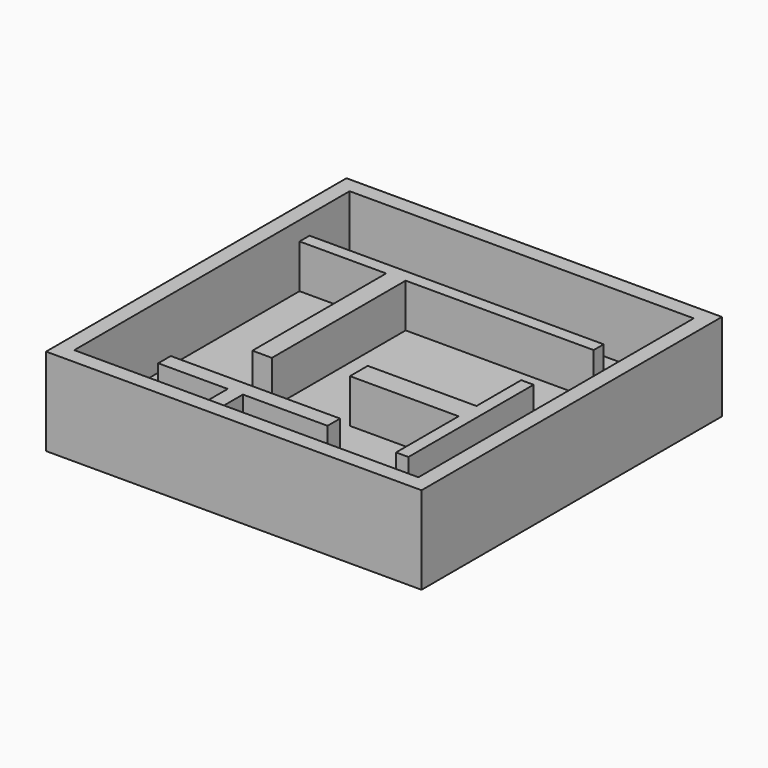
from build123d import *

# Parameters (mm, degrees)
F0_W     = 38.1
F0_H     = 38.1
F1_DEPTH = 2.54
F2_W     = 38.1
F2_H     = 38.1
F2_W_2   = 34.925
F2_H_2   = 34.925
F3_DEPTH = 6.35
F5_DEPTH = 4.445
F4_R     = 1.27
F6_DEPTH = 0.396875


with BuildPart() as f1:
    # F0 (on Top) → F1 (new body)
    with BuildSketch(Plane.XY):
        with Locations((8.869877, 1.785933)):
            Rectangle(F0_W, F0_H)
    extrude(amount=F1_DEPTH)

    # F2 (on face) → F3 (join)
    with BuildSketch(Plane.XY.offset(2.54)):
        with Locations((8.869877, 1.785933)):
            Rectangle(F2_W, F2_H)
        with Locations((8.869877, 1.785933)):
            Rectangle(F2_W_2, F2_H_2, mode=Mode.SUBTRACT)
    extrude(amount=F3_DEPTH)

    # F4 (on face) → F6 (cut)
    with BuildSketch(Plane.XY.offset(2.54)):
        with Locations((24.114743, -12.880545)):
            Circle(F4_R)
        with Locations((-5.867907, 16.812883)):
            Circle(F4_R)
    extrude(amount=-F6_DEPTH, mode=Mode.SUBTRACT)


with BuildPart() as f5:
    # F4 (on face) → F5 (new body)
    with BuildSketch(Plane.XY.offset(2.54)):
        Polygon((21.252377, 14.168433), (-8.592623, 14.168433), (-8.592623, 12.898433), (0.198127, 12.898433), (0.198127, -4.071151), (2.178014, -4.071151), (2.178014, 12.898433), (21.252377, 12.898433), align=None)
        Polygon((21.252377, -10.596567), (21.252377, 5.282672), (19.996995, 5.282672), (19.996995, -0.394219), (8.966197, -0.394219), (8.966197, -2.656947), (19.996995, -2.656947), (19.996995, -10.596567), align=None)
        Polygon((-3.512623, -14.131934), (-3.512623, -15.676567), (14.390845, -15.676567), (14.390845, -14.131934), (4.314109, -14.131934), (4.314109, -10.419453), (12.905852, -10.419453), (12.905852, -8.828389), (-4.277635, -8.828389), (-4.277635, -10.419453), (2.773948, -10.419453), (2.773948, -14.131934), align=None)
    extrude(amount=F5_DEPTH)


solid = Compound([f1.part, f5.part])
